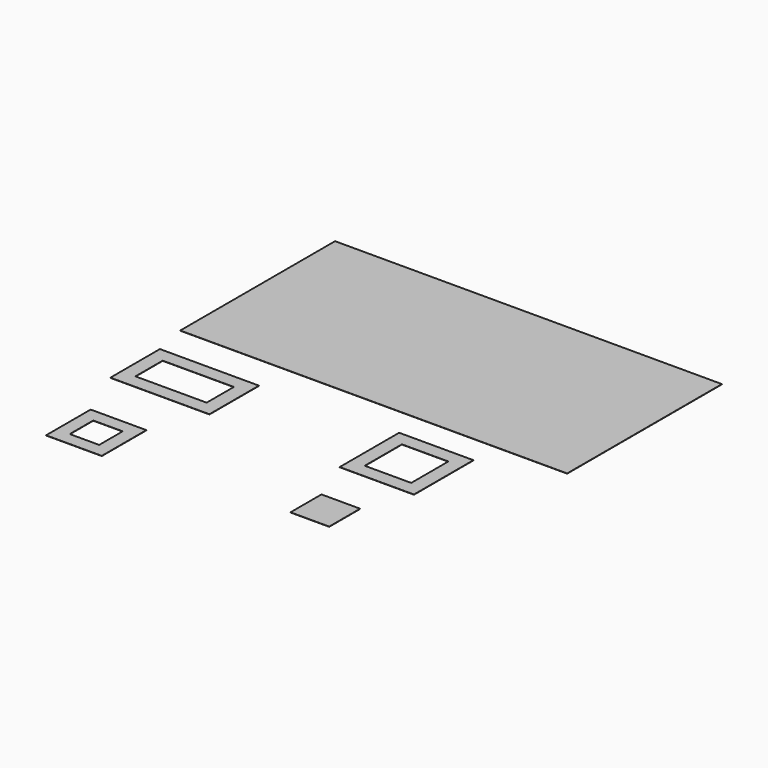
from build123d import *

# Parameters (mm, degrees)
F0_W     = 640
F0_H     = 400
F0_W_2   = 460
F0_H_2   = 220
F1_DEPTH = 1.5
F0_W_3   = 480
F0_H_3   = 480
F0_W_4   = 300
F0_H_4   = 300
F0_W_5   = 250
F0_H_5   = 250
F0_W_6   = 360
F0_H_6   = 360
F0_W_7   = 190
F0_H_7   = 190
F2_DEPTH = 1.5
F3_W     = 2500
F3_H     = 1250
F4_DEPTH = 1.5


with BuildPart() as f1:
    # F0 (on Top) → F1 (new body)
    with BuildSketch(Plane.XY):
        with Locations((-147.190171, 565.693362)):
            Rectangle(F0_W, F0_H)
        with Locations((-147.190171, 565.693362)):
            Rectangle(F0_W_2, F0_H_2, mode=Mode.SUBTRACT)
    extrude(amount=F1_DEPTH)


with BuildPart() as f2:
    # F0 (on Top) → F2 (new body)
    with BuildSketch(Plane.XY):
        with Locations((1286.602703, 565.693362)):
            Rectangle(F0_W_3, F0_H_3)
        with Locations((1286.602703, 565.693362)):
            Rectangle(F0_W_4, F0_H_4, mode=Mode.SUBTRACT)
        with Locations((1286.602703, -90.376285)):
            Rectangle(F0_W_5, F0_H_5)
        with Locations((-147.190171, -148.700306)):
            Rectangle(F0_W_6, F0_H_6)
        with Locations((-147.190171, -148.700306)):
            Rectangle(F0_W_7, F0_H_7, mode=Mode.SUBTRACT)
    extrude(amount=F2_DEPTH)


with BuildPart() as f4:
    # F3 (on Top) → F4 (new body)
    with BuildSketch(Plane.XY):
        with Locations((736.332655, 1613.274813)):
            Rectangle(F3_W, F3_H)
    extrude(amount=F4_DEPTH)


solid = Compound([f1.part, f2.part, f4.part])
